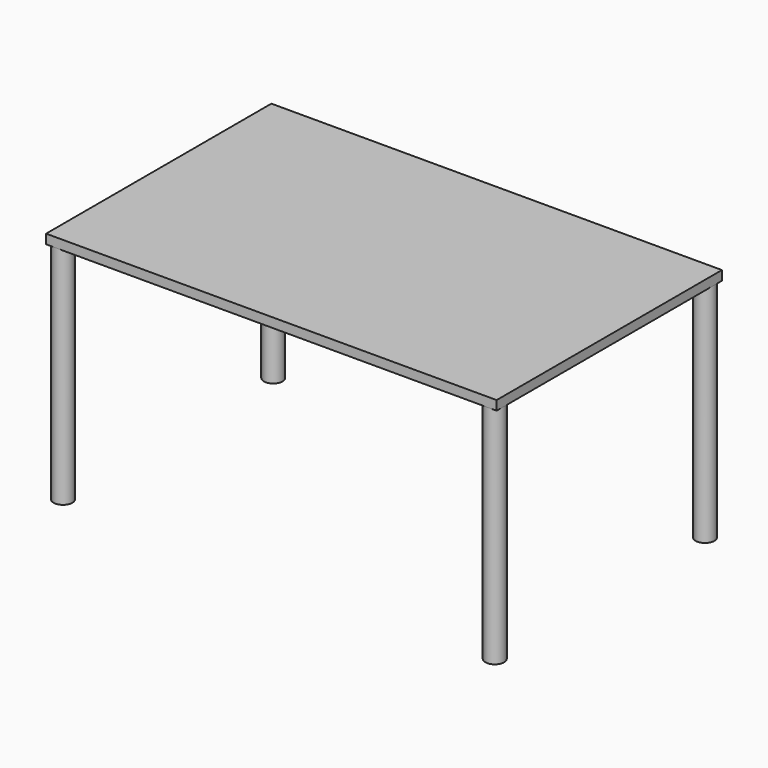
from build123d import *

# Parameters (mm, degrees)
F1_R     = 25
F3_DEPTH = 600
F2_W     = 1200
F2_H     = 750
F4_DEPTH = 25


with BuildPart() as f3:
    # F1 (on Top) → F3 (new body)
    with BuildSketch(Plane.XY):
        with Locations((-575, 350)):
            Circle(F1_R)
        with Locations((-575, -350)):
            Circle(F1_R)
        with Locations((575, -350)):
            Circle(F1_R)
        with Locations((575, 350)):
            Circle(F1_R)
    extrude(amount=F3_DEPTH)


with BuildPart() as f4:
    # F2 (on offset) → F4 (new body)
    with BuildSketch(Plane.XY.offset(600)):
        Rectangle(F2_W, F2_H)
    extrude(amount=F4_DEPTH)


solid = Compound([f3.part, f4.part])
